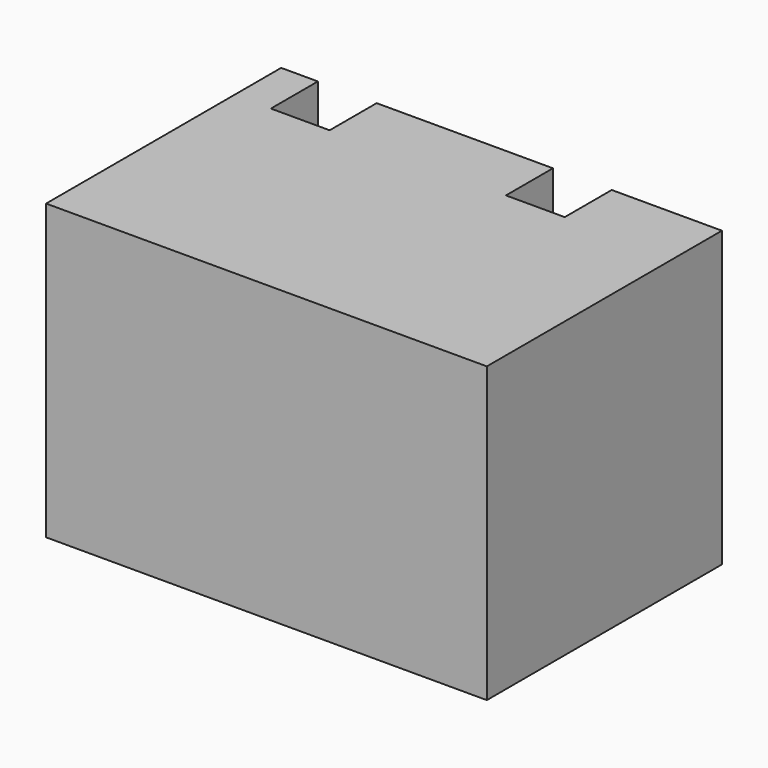
from build123d import *

# Parameters (mm, degrees)
F0_W     = 30
F0_H     = 20
F1_DEPTH = 20
F2_W     = 4
F2_H     = 4
F3_DEPTH = 20.001
F5_DEPTH = 5


with BuildPart() as f1:
    # F0 (on Top) → F1 (new body)
    with BuildSketch(Plane.XY):
        with Locations((15, 10)):
            Rectangle(F0_W, F0_H)
    extrude(amount=F1_DEPTH)

    # F2 (on face) → F3 (cut, through all)
    with BuildSketch(Plane.XY.offset(20)):
        with Locations((4.5, 18)):
            Rectangle(F2_W, F2_H)
        with Locations((20.5, 18)):
            Rectangle(F2_W, F2_H)
    extrude(amount=-F3_DEPTH, mode=Mode.SUBTRACT)

    # F4 (on face) → F5 (join)
    with BuildSketch(Plane(origin=(0, 0, 0), x_dir=(1, 0, 0), z_dir=(0, 0, -1))):
        with BuildLine():
            ThreePointArc((15, -8), (13.585786, -8.585786), (13, -10))
            Line((13, -10), (15, -10))
            Line((15, -10), (15, -8))
        make_face()
        with BuildLine():
            Line((15, -10), (13, -10))
            ThreePointArc((13, -10), (13.585786, -11.414214), (15, -12))
            Line((15, -12), (15, -10))
        make_face()
        with BuildLine():
            Line((15, -8), (15, -10))
            Line((15, -10), (17, -10))
            ThreePointArc((17, -10), (16.414214, -8.585786), (15, -8))
        make_face()
        with BuildLine():
            Line((17, -10), (15, -10))
            Line((15, -10), (15, -12))
            ThreePointArc((15, -12), (16.414214, -11.414214), (17, -10))
        make_face()
    extrude(amount=F5_DEPTH)


solid = f1.part
